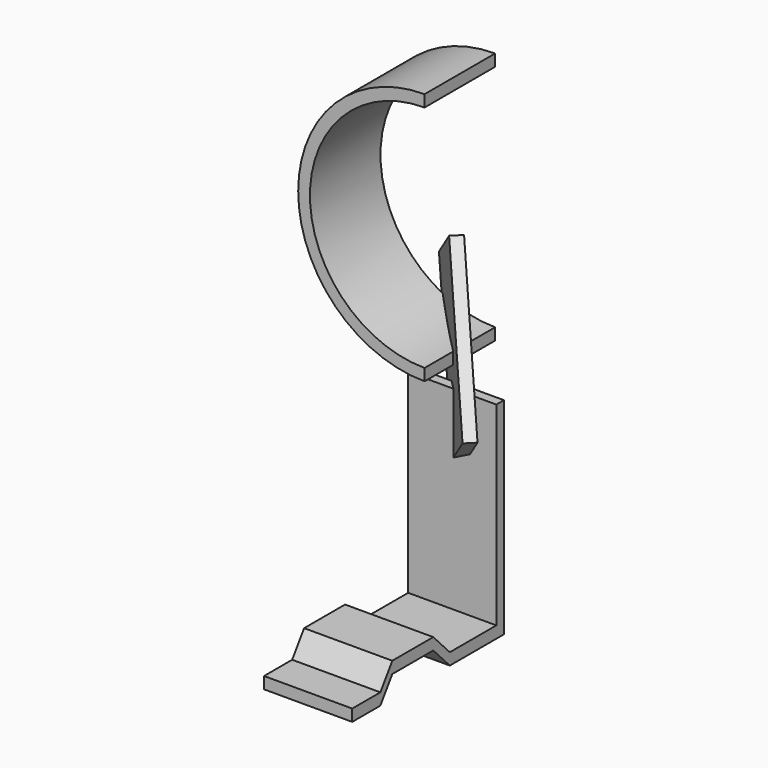
from build123d import *

# Parameters (mm, degrees)
F1_DEPTH = 7.5
F3_DEPTH = 7.5
F6_DEPTH = 1


with BuildPart() as f1:
    # F0 (on Front) → F1 (new body, symmetric)
    with BuildSketch(Plane.XZ):
        with BuildLine():
            ThreePointArc((0, 40.5), (-19.5, 60), (0, 79.5))
            Line((0, 79.5), (0, 81.5))
            ThreePointArc((0, 81.5), (-21.5, 60), (0, 38.5))
            Line((0, 38.5), (0, 40.5))
        make_face()
    extrude(amount=F1_DEPTH, both=True)


with BuildPart() as f3:
    # F2 (on Right) → F3 (new body, symmetric)
    with BuildSketch(Plane.YZ):
        Polygon((0, 0), (0, 35.0671593758), (-1.6212782684, 35.0671593758), (-1.6212782684, 2), (-11.51165483, 2), (-15.0352595659, 5.7006245105), (-23.7427725853, 5.7006245105), (-26.2806854154, 2), (-32.2620575655, 2), (-32.2620575655, 0), (-26.2806854154, 0), (-23.7427725853, 3.7006245105), (-15.0352595659, 3.7006245105), (-11.51165483, 0), align=None)
    extrude(amount=F3_DEPTH, both=True)


with BuildPart() as f6:
    # F5 (on face) → F6 (new body, symmetric)
    with BuildSketch(Plane(origin=(0, 0, 0), x_dir=(-0.7071067812, 0.7071067812, 0), z_dir=(0.7071067812, 0.7071067812, 0))):
        Polygon((0, 23.8415779416), (16.166330901, 46.5799224766), (3.9411990612, 55.2716513897), (-12.2251318398, 32.5333068548), align=None)
    extrude(amount=F6_DEPTH, both=True)


solid = Compound([f1.part, f3.part, f6.part])
